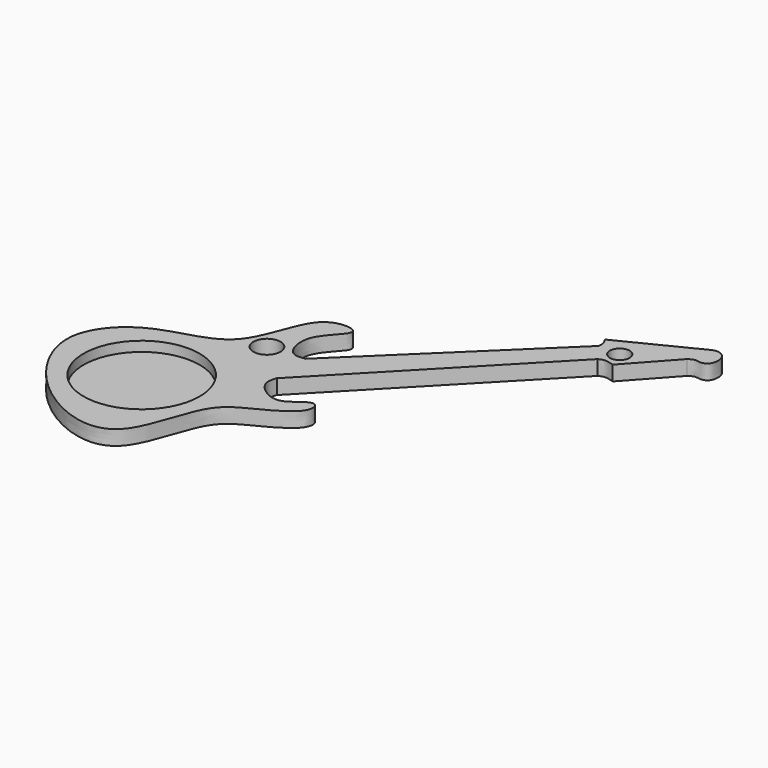
from build123d import *

# Parameters (mm, degrees)
F0_R     = 2.75
F0_R_2   = 2
F1_DEPTH = 3
F2_R     = 11.75
F3_DEPTH = 2


with BuildPart() as f1:
    # F0 (on Top) → F1 (new body)
    with BuildSketch(Plane.XY):
        with BuildLine():
            Line((14.8341320455, 20.0627725571), (-18.600281328, -12.3088480905))
            add(Edge.make_bspline(
                [(-18.600281328, -12.3088480905), (-19.613585405, -12.4478371241), (-22.0326518141, -12.7796464102), (-23.8334698924, -6.0127843897), (-18.7783100109, -1.9791525264), (-18.2399458857, 0.6501915562), (-26.9469886021, 0.8829411976), (-28.5681789787, -16.8928098384), (-45.0135411693, -17.6084712941), (-55.3537601502, -29.256154928), (-47.1028541723, -44.6396537124), (-34.1890625637, -52.2631961399), (-24.2236433802, -50.550184647), (-21.3118359559, -34.228338839), (-14.7186149942, -31.0837291609), (-6.8616835516, -26.8970174361), (-7.2064410493, -23.3120194394), (-9.5185098506, -23.5305491897), (-13.1674365018, -27.6969026666), (-18.9651163151, -23.4457834642), (-18.2763290921, -21.2649723396), (-17.9889108986, -20.3549601138)],
                knots=[0, 0, 0, 0, 0.0335041714, 0.0799846931, 0.1294723202, 0.1541435545, 0.2007646423, 0.2765290101, 0.3522117963, 0.423200424, 0.5011628533, 0.577170094, 0.6331638053, 0.7091181393, 0.763554131, 0.8206838423, 0.8508533887, 0.8761372128, 0.9197705592, 0.9665217354, 1, 1, 1, 1], degree=3))
            Line((-17.9889108986, -20.3549601138), (17.512736842, 16.4387840778))
            add(Edge.make_bspline(
                [(17.512736842, 16.4387840778), (17.8603800011, 16.6152895627), (18.6545173514, 17.0184892072), (19.8726534276, 16.6474157015), (20.5575358123, 16.4387840778)],
                knots=[0, 0, 0, 0, 0.4377620054, 1, 1, 1, 1], degree=3))
            Line((20.5575358123, 16.4387840778), (28.5679139197, 25.2987444401))
            add(Edge.make_bspline(
                [(28.5679139197, 25.2987444401), (28.9381168856, 25.5328322761), (29.6762448788, 25.9995675553), (30.9136955475, 25.5676622441), (32.696608516, 26.1080699119), (32.9799296592, 29.2825821498), (30.885332058, 30.596003902), (29.9614377378, 30.2363757803), (29.5516457409, 30.0768632442)],
                knots=[0, 0, 0, 0, 0.1444986244, 0.2881081177, 0.4499191573, 0.6629443312, 0.8504994429, 1, 1, 1, 1], degree=3))
            Line((29.5516457409, 30.0768632442), (14.2335537821, 22.3943963647))
            add(Edge.make_bspline(
                [(14.8341320455, 20.0627725571), (14.8772098292, 20.4348443511), (14.9678562745, 21.2177765877), (14.4862742522, 21.9894462165), (14.2335537821, 22.3943963647)],
                knots=[0, 0, 0, 0, 0.4752286042, 1, 1, 1, 1], degree=3))
        make_face()
        with Locations((-25.9389635175, -12.9174813628)):
            Circle(F0_R, mode=Mode.SUBTRACT)
        with Locations((19.2247908562, 19.9092645198)):
            Circle(F0_R_2, mode=Mode.SUBTRACT)
    extrude(amount=-F1_DEPTH)

    # F2 (on face) → F3 (cut)
    with BuildSketch(Plane.XY):
        with Locations((-35.3636071086, -32.8455381095)):
            Circle(F2_R)
    extrude(amount=-F3_DEPTH, mode=Mode.SUBTRACT)


solid = f1.part
